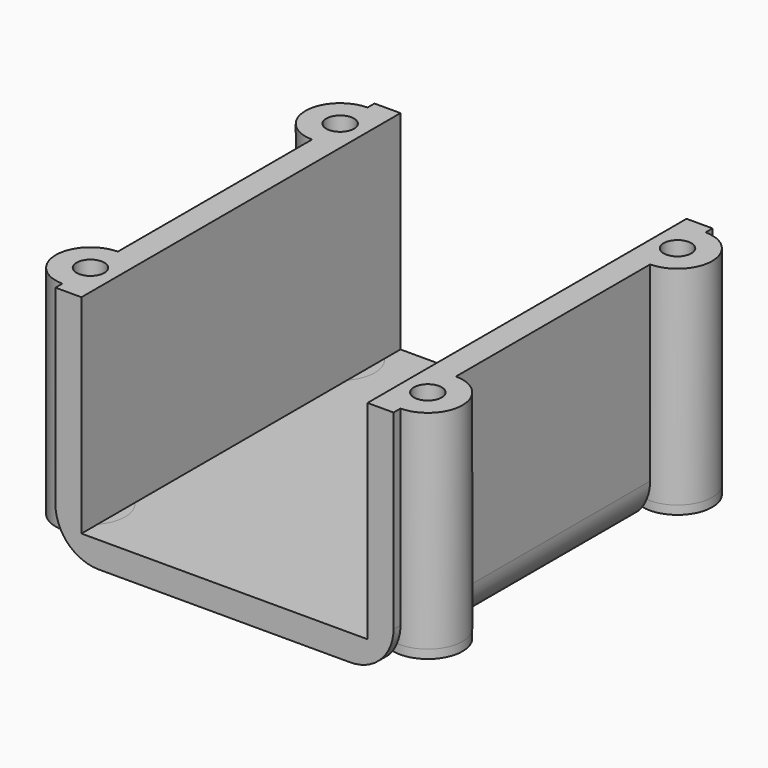
from build123d import *

# Parameters (mm, degrees)
F1_DEPTH      = 46
F3_R          = 1.6
F4_DEPTH      = 24
F5_DEPTH      = 24.001
F5_DEPTH_BACK = 3.001
F6_DEPTH      = 25
F7_DEPTH      = 2
F8_DEPTH      = 25
F9_DEPTH      = 1


with BuildPart() as f1:
    # F0 (on Front) → F1 (new body)
    with BuildSketch(Plane.XZ):
        with BuildLine():
            Line((16.5, 0), (-16.5, 0))
            Line((-16.5, 0), (-16.5, 21))
            Line((-16.5, 21), (-16.5, 24))
            Line((-16.5, 24), (-19.5, 24))
            Line((-19.5, 24), (-19.5, 2))
            ThreePointArc((-19.5, 2), (-18.035534, -1.535534), (-14.5, -3))
            Line((-14.5, -3), (14.5, -3))
            ThreePointArc((14.5, -3), (18.035534, -1.535534), (19.5, 2))
            Line((19.5, 2), (19.5, 24))
            Line((19.5, 24), (16.5, 24))
            Line((16.5, 24), (16.5, 21))
            Line((16.5, 21), (16.5, 0))
        make_face()
    extrude(amount=F1_DEPTH)

    # F3 (on Top) → F4 (join, through all)
    with BuildSketch(Plane.XY):
        with BuildLine():
            ThreePointArc((-16.511744, -2.294334), (-23.457821, -5), (-16.511744, -7.705666))
            Line((-16.511744, -7.705666), (-16.511744, -2.294334))
        make_face()
        with Locations((-19.457821, -5)):
            Circle(F3_R, mode=Mode.SUBTRACT)
        with BuildLine():
            Line((16.511744, -2.294334), (16.511744, -7.705666))
            ThreePointArc((16.511744, -7.705666), (23.457821, -5), (16.511744, -2.294334))
        make_face()
        with Locations((19.457821, -5)):
            Circle(F3_R, mode=Mode.SUBTRACT)
        with BuildLine():
            Line((16.511744, -38.294334), (16.511744, -43.705666))
            ThreePointArc((16.511744, -43.705666), (23.457821, -41), (16.511744, -38.294334))
        make_face()
        with Locations((19.457821, -41)):
            Circle(F3_R, mode=Mode.SUBTRACT)
        with BuildLine():
            ThreePointArc((-16.511744, -38.294334), (-23.457821, -41), (-16.511744, -43.705666))
            Line((-16.511744, -43.705666), (-16.511744, -38.294334))
        make_face()
        with Locations((-19.457821, -41)):
            Circle(F3_R, mode=Mode.SUBTRACT)
    extrude(amount=F4_DEPTH)

    # F3 (on Top) → F5 (cut, two sides)
    with BuildSketch(Plane.XY) as f5_sk:
        with Locations((19.457821, -5)):
            Circle(F3_R)
        with Locations((-19.457821, -5)):
            Circle(F3_R)
        with Locations((-19.457821, -41)):
            Circle(F3_R)
        with Locations((19.457821, -41)):
            Circle(F3_R)
    extrude(amount=F5_DEPTH, mode=Mode.SUBTRACT)
    extrude(f5_sk.sketch, amount=-F5_DEPTH_BACK, mode=Mode.SUBTRACT)

    # F3 (on Top) → F6 (cut)
    with BuildSketch(Plane.XY):
        with BuildLine():
            Line((16.511744, -2.294334), (16.511744, -7.705666))
            ThreePointArc((16.511744, -7.705666), (23.457821, -5), (16.511744, -2.294334))
        make_face()
        with Locations((19.457821, -5)):
            Circle(F3_R, mode=Mode.SUBTRACT)
        with BuildLine():
            ThreePointArc((-16.511744, -2.294334), (-23.457821, -5), (-16.511744, -7.705666))
            Line((-16.511744, -7.705666), (-16.511744, -2.294334))
        make_face()
        with Locations((-19.457821, -5)):
            Circle(F3_R, mode=Mode.SUBTRACT)
        with BuildLine():
            Line((16.511744, -38.294334), (16.511744, -43.705666))
            ThreePointArc((16.511744, -43.705666), (23.457821, -41), (16.511744, -38.294334))
        make_face()
        with Locations((19.457821, -41)):
            Circle(F3_R, mode=Mode.SUBTRACT)
    extrude(amount=-F6_DEPTH, mode=Mode.SUBTRACT)

    # F3 (on Top) → F7 (join)
    with BuildSketch(Plane.XY):
        with BuildLine():
            ThreePointArc((-16.511744, -38.294334), (-23.457821, -41), (-16.511744, -43.705666))
            Line((-16.511744, -43.705666), (-16.511744, -38.294334))
        make_face()
        with Locations((-19.457821, -41)):
            Circle(F3_R, mode=Mode.SUBTRACT)
        with BuildLine():
            ThreePointArc((-16.511744, -2.294334), (-23.457821, -5), (-16.511744, -7.705666))
            Line((-16.511744, -7.705666), (-16.511744, -2.294334))
        make_face()
        with Locations((-19.457821, -5)):
            Circle(F3_R, mode=Mode.SUBTRACT)
        with BuildLine():
            Line((16.511744, -38.294334), (16.511744, -43.705666))
            ThreePointArc((16.511744, -43.705666), (23.457821, -41), (16.511744, -38.294334))
        make_face()
        with Locations((19.457821, -41)):
            Circle(F3_R, mode=Mode.SUBTRACT)
        with BuildLine():
            Line((16.511744, -2.294334), (16.511744, -7.705666))
            ThreePointArc((16.511744, -7.705666), (23.457821, -5), (16.511744, -2.294334))
        make_face()
        with Locations((19.457821, -5)):
            Circle(F3_R, mode=Mode.SUBTRACT)
    extrude(amount=-F7_DEPTH)

    # F3 (on Top) → F8 (cut)
    with BuildSketch(Plane.XY):
        with BuildLine():
            Line((16.511744, -2.294334), (16.511744, -7.705666))
            ThreePointArc((16.511744, -7.705666), (23.457821, -5), (16.511744, -2.294334))
        make_face()
        with Locations((19.457821, -5)):
            Circle(F3_R, mode=Mode.SUBTRACT)
        with BuildLine():
            ThreePointArc((16.511744, -2.294334), (15.457821, -5), (16.511744, -7.705666))
            Line((16.511744, -7.705666), (16.511744, -2.294334))
        make_face()
        with BuildLine():
            Line((16.511744, -38.294334), (16.511744, -43.705666))
            ThreePointArc((16.511744, -43.705666), (23.457821, -41), (16.511744, -38.294334))
        make_face()
        with Locations((19.457821, -41)):
            Circle(F3_R, mode=Mode.SUBTRACT)
        with BuildLine():
            ThreePointArc((16.511744, -38.294334), (15.457821, -41), (16.511744, -43.705666))
            Line((16.511744, -43.705666), (16.511744, -38.294334))
        make_face()
        with BuildLine():
            ThreePointArc((-16.511744, -2.294334), (-23.457821, -5), (-16.511744, -7.705666))
            Line((-16.511744, -7.705666), (-16.511744, -2.294334))
        make_face()
        with Locations((-19.457821, -5)):
            Circle(F3_R, mode=Mode.SUBTRACT)
        with BuildLine():
            Line((-16.511744, -2.294334), (-16.511744, -7.705666))
            ThreePointArc((-16.511744, -7.705666), (-15.457821, -5), (-16.511744, -2.294334))
        make_face()
        with BuildLine():
            ThreePointArc((-16.511744, -38.294334), (-23.457821, -41), (-16.511744, -43.705666))
            Line((-16.511744, -43.705666), (-16.511744, -38.294334))
        make_face()
        with Locations((-19.457821, -41)):
            Circle(F3_R, mode=Mode.SUBTRACT)
        with BuildLine():
            Line((-16.511744, -38.294334), (-16.511744, -43.705666))
            ThreePointArc((-16.511744, -43.705666), (-15.457821, -41), (-16.511744, -38.294334))
        make_face()
    extrude(amount=-F8_DEPTH, mode=Mode.SUBTRACT)

    # F3 (on Top) → F9 (join)
    with BuildSketch(Plane.XY):
        with BuildLine():
            Line((-16.511744, -38.294334), (-16.511744, -43.705666))
            ThreePointArc((-16.511744, -43.705666), (-15.457821, -41), (-16.511744, -38.294334))
        make_face()
        with BuildLine():
            ThreePointArc((-16.511744, -38.294334), (-23.457821, -41), (-16.511744, -43.705666))
            Line((-16.511744, -43.705666), (-16.511744, -38.294334))
        make_face()
        with Locations((-19.457821, -41)):
            Circle(F3_R, mode=Mode.SUBTRACT)
        with BuildLine():
            ThreePointArc((16.511744, -38.294334), (15.457821, -41), (16.511744, -43.705666))
            Line((16.511744, -43.705666), (16.511744, -38.294334))
        make_face()
        with BuildLine():
            Line((16.511744, -38.294334), (16.511744, -43.705666))
            ThreePointArc((16.511744, -43.705666), (23.457821, -41), (16.511744, -38.294334))
        make_face()
        with Locations((19.457821, -41)):
            Circle(F3_R, mode=Mode.SUBTRACT)
        with BuildLine():
            ThreePointArc((16.511744, -2.294334), (15.457821, -5), (16.511744, -7.705666))
            Line((16.511744, -7.705666), (16.511744, -2.294334))
        make_face()
        with BuildLine():
            Line((16.511744, -2.294334), (16.511744, -7.705666))
            ThreePointArc((16.511744, -7.705666), (23.457821, -5), (16.511744, -2.294334))
        make_face()
        with Locations((19.457821, -5)):
            Circle(F3_R, mode=Mode.SUBTRACT)
        with BuildLine():
            Line((-16.511744, -2.294334), (-16.511744, -7.705666))
            ThreePointArc((-16.511744, -7.705666), (-15.457821, -5), (-16.511744, -2.294334))
        make_face()
        with BuildLine():
            ThreePointArc((-16.511744, -2.294334), (-23.457821, -5), (-16.511744, -7.705666))
            Line((-16.511744, -7.705666), (-16.511744, -2.294334))
        make_face()
        with Locations((-19.457821, -5)):
            Circle(F3_R, mode=Mode.SUBTRACT)
    extrude(amount=-F9_DEPTH)


solid = f1.part
